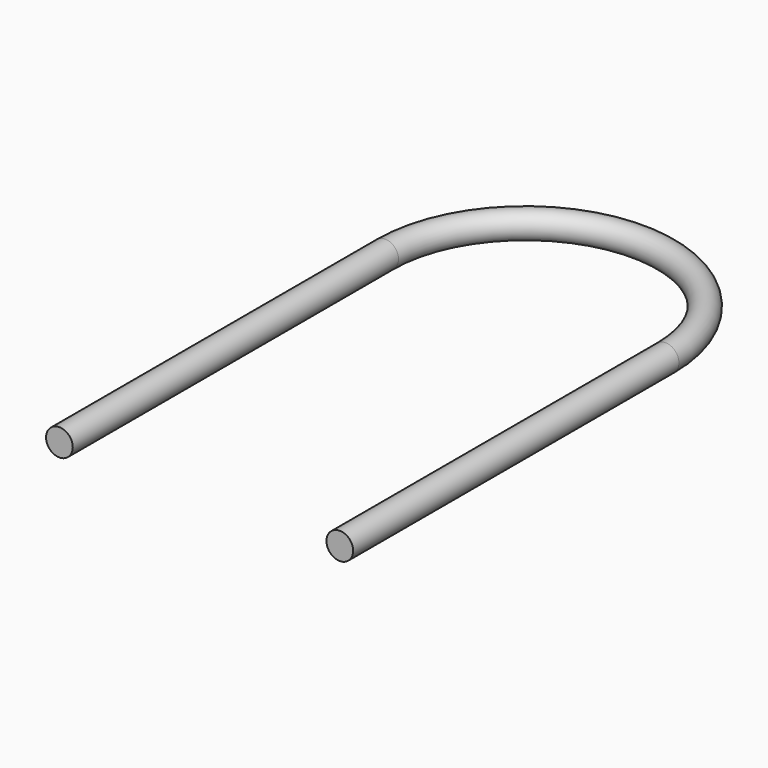
from build123d import *

# Parameters (mm, degrees)
F1_R = 2


with BuildPart() as f2:
    # F2: sweep along a path in F0
    with BuildLine(Plane.XY) as f2_path:
        Line((-21, 0), (-21, 61))
        ThreePointArc((-21, 61), (0, 82), (21, 61))
        Line((21, 61), (21, 0))
    # F1 (on Front) → F2 (sweep)
    with BuildSketch(Plane.XZ):
        with Locations((-21, 0)):
            Circle(F1_R)
    sweep(path=f2_path.line)


solid = f2.part
